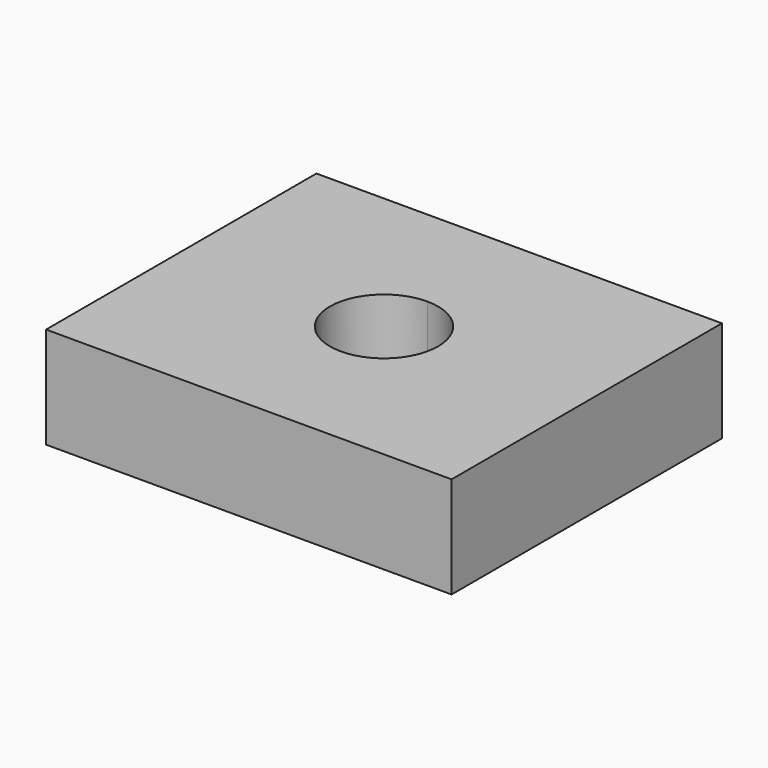
from build123d import *

# Parameters (mm, degrees)
F1_DEPTH = 3


with BuildPart() as f1:
    # F0 (on Top) → F1 (new body)
    with BuildSketch(Plane.XY):
        Polygon((6, 1.6), (6, 5), (-6, 5), (-6, 1.6), (0, 1.6), align=None)
        with BuildLine():
            Line((0, 1.6), (-6, 1.6))
            Line((-6, 1.6), (-6, -1.6))
            Line((-6, -1.6), (0, -1.6))
            ThreePointArc((0, -1.6), (-1.6, 0), (0, 1.6))
        make_face()
        with BuildLine():
            Line((6, -1.6), (6, 1.6))
            Line((6, 1.6), (0, 1.6))
            ThreePointArc((0, 1.6), (1.131371, 1.131371), (1.6, 0))
            ThreePointArc((1.6, 0), (1.131371, -1.131371), (0, -1.6))
            Line((0, -1.6), (6, -1.6))
        make_face()
        Polygon((6, -5), (6, -1.6), (0, -1.6), (-6, -1.6), (-6, -5), align=None)
    extrude(amount=F1_DEPTH)


solid = f1.part
